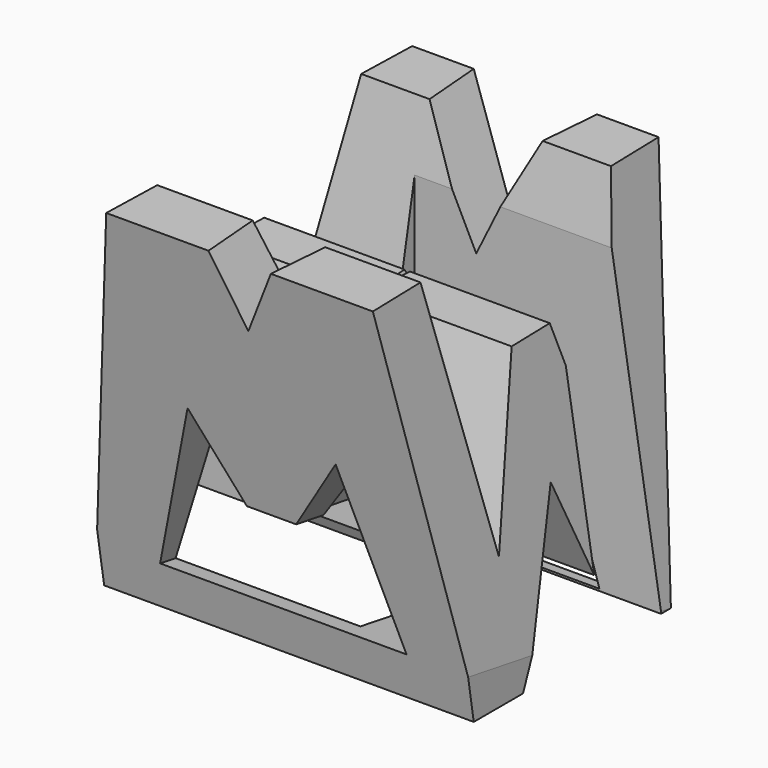
from build123d import *

# Parameters (mm, degrees)
F0_W     = 38.1
F0_H     = 38.0999925736
F1_DEPTH = 38.1
F4_DEPTH = 38.1
F6_DEPTH = 38.1
F7_W     = 25.4
F7_H     = 7.62
F8_DEPTH = 38.1


with BuildPart() as f1:
    # F0 (on Front) → F1 (new body)
    with BuildSketch(Plane.XZ):
        with Locations((19.05, 19.0499962868)):
            Rectangle(F0_W, F0_H)
    extrude(amount=F1_DEPTH)

    # F3 (on face) → F4 (cut)
    with BuildSketch(Plane.YZ.offset(38.1)):
        Polygon((-6.35, 38.0999925736), (-31.75, 38.0999925736), (-26.67, 12.4402772635), (-21.59, 28.575), (-16.51, 28.575), (-11.43, 11.9197117337), align=None)
        Polygon((-31.75, 0), (-38.1, 38.0999925736), (-38.1, 0), align=None)
        Polygon((-19.05, 15.875), (-25.4, 0), (-12.7, 0), align=None)
        Polygon((0, 0), (0, 38.0999925736), (-6.35, 0), align=None)
    extrude(amount=-F4_DEPTH, mode=Mode.SUBTRACT)

    # F5 (on face) → F6 (cut)
    with BuildSketch(Plane(origin=(0, -6.1783783133, 1.0297299196), x_dir=(-1, 0, 0), z_dir=(0, 0.9863939186, -0.1643990185))):
        Polygon((-26.67, 15.0061463937), (-31.75, -1.0439337674), (-6.35, -1.0439337674), (-11.43, 15.1532115415), (-16.51, 7.6999627054), (-21.59, 7.6999627054), align=None)
        Polygon((-38.1, -1.0439337674), (-31.75, 37.5816009747), (-38.1, 37.5816009747), align=None)
        Polygon((-12.7, 37.5816009747), (-25.4, 37.5816009747), (-19.05, 24.8909872025), align=None)
        Polygon((0, 37.5816009747), (-6.35, 37.5816009747), (0, 0), align=None)
    extrude(amount=-F6_DEPTH, mode=Mode.SUBTRACT)

    # F7 (on offset) → F8 (cut)
    with BuildSketch(Plane.XY.offset(38.1)):
        with Locations((25.4, -11.43)):
            Rectangle(F7_W, F7_H)
        with Locations((12.7, -26.67)):
            Rectangle(F7_W, F7_H)
    extrude(amount=-F8_DEPTH, mode=Mode.SUBTRACT)


solid = f1.part
